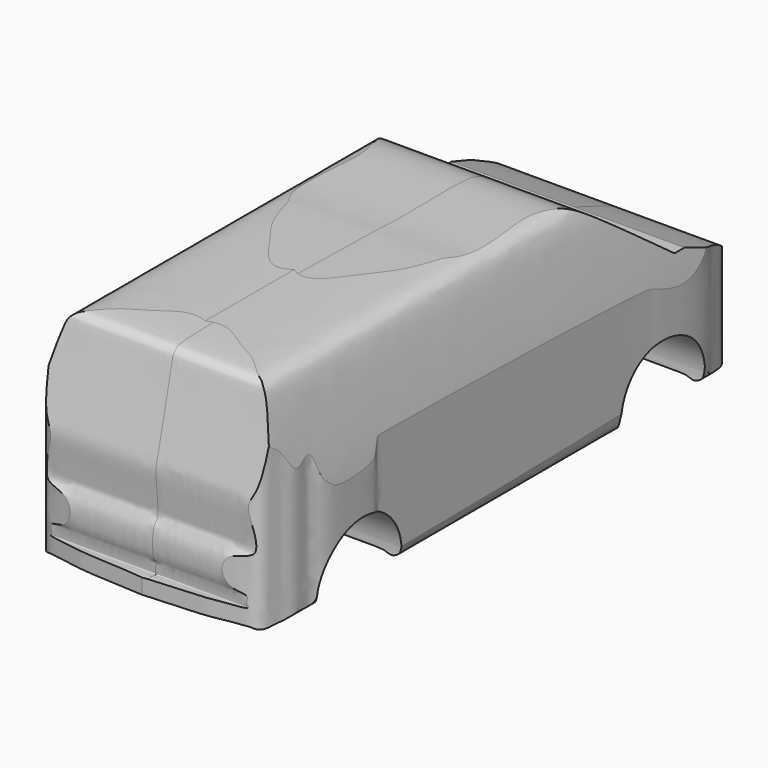
from build123d import *

# Parameters (mm, degrees)
F1_DEPTH = 489.2
F2_W     = 552.1718710661
F2_H     = 241.2179373205
F3_DEPTH = 150
F4_W     = 253.8293302059
F4_H     = 557.7778369188
F5_DEPTH = 195
F7_DEPTH = 128


with BuildPart() as f1:
    # F0 (on Front) → F1 (new body)
    with BuildSketch(Plane.XZ):
        with BuildLine():
            Line((-4.9163270742, 26.3766944408), (-4.9163270742, 186.1269325018))
            add(Edge.make_bspline(
                [(-4.9163270742, 186.1269325018), (-22.5806497037, 186.2470954657), (-39.7362336261, 185.8541230266), (-72.2403186612, 185.3564106492), (-77.4408093017, 181.1355058288), (-82.8351604574, 177.2207380093), (-94.4015701869, 123.2722789066), (-98.1410821188, 99.7118796438), (-99.2054438618, 78.1459320586), (-98.5277901216, 54.8078078692), (-95.0811025454, 29.4705435619), (-92.3951349311, 26.6784782419), (-87.7274105511, 24.2469144689), (-82.6026235778, 26.2448302063), (-77.6476138688, 27.3155752068), (-37.4142419456, 26.796482526), (-4.9163270742, 26.3766944408)],
                knots=[0, 0, 0, 0, 0.1039987304, 0.1931272163, 0.2321696231, 0.2711855953, 0.3927585533, 0.4794899335, 0.5534706884, 0.6375751135, 0.7192920725, 0.7499903944, 0.7862201058, 0.8229528414, 0.8568123095, 1, 1, 1, 1], degree=3))
        make_face()
        with BuildLine():
            add(Edge.make_bspline(
                [(-4.9163270742, 186.1269325018), (12.7479955554, 186.2470954657), (29.9035794778, 185.8541230266), (62.4076645129, 185.3564106492), (67.6081551534, 181.1355058288), (73.002506309, 177.2207380093), (84.5689160385, 123.2722789066), (88.3084279704, 99.7118796438), (89.3727897135, 78.1459320586), (88.6951359733, 54.8078078692), (85.248448397, 29.4705435619), (82.5624807828, 26.6784782419), (77.8947564028, 24.2469144689), (72.7699694294, 26.2448302063), (67.8149597205, 27.3155752068), (27.5815877972, 26.796482526), (-4.9163270742, 26.3766944408)],
                knots=[0, 0, 0, 0, 0.1039987304, 0.1931272163, 0.2321696231, 0.2711855953, 0.3927585533, 0.4794899335, 0.5534706884, 0.6375751135, 0.7192920725, 0.7499903944, 0.7862201058, 0.8229528414, 0.8568123095, 1, 1, 1, 1], degree=3))
            Line((-4.9163270742, 186.1269325018), (-4.9163270742, 26.3766944408))
        make_face()
    extrude(amount=F1_DEPTH)

    # F2 (on Right) → F3 (cut, symmetric)
    with BuildSketch(Plane.YZ):
        with Locations((-228.5621538758, 95.2818859369)):
            Rectangle(F2_W, F2_H)
        with BuildLine():
            add(Edge.make_bspline(
                [(-68.2119354606, 123.4825924039), (-54.4729644064, 118.4575147897), (-34.2161648556, 111.0485181803), (-27.0224678462, 106.5285001586), (-19.2236317508, 101.0048141359), (-15.4843838539, 97.1070190778), (-14.8815116911, 95.0945543945), (-12.3918319955, 94.8927020752), (-10.6341686151, 92.4842629083), (-8.2450770169, 87.5774388405), (-9.3826457506, 83.4010473739), (-8.8887459277, 78.1493990732), (-9.4445568987, 76.8897941355), (-6.2773103135, 75.4882318173), (-4.8463985176, 73.0703003666), (-3.9391535006, 70.7319692407), (-4.4540032431, 67.2054331302), (-4.7378227036, 65.9629810861), (-6.3420309907, 65.047041803), (-7.753448425, 64.2248372081), (-7.7324344205, 62.3450505623), (-8.1132880774, 54.001086094), (-6.8595709662, 53.0184329121), (-4.9149502443, 52.1601957632), (-2.9960762811, 51.4547733591), (-2.3824397396, 48.4768688656), (-2.7332922285, 36.9458959569), (-4.3200666389, 33.8231432499), (-7.9192002976, 28.4971688408), (-15.1438332229, 25.7778867549), (-28.9381492106, 25.5057982741), (-36.6917193995, 23.780863038), (-45.7834286489, 23.9907554484), (-50.9434118867, 24.1098795086)],
                knots=[0, 0, 0, 0, 0.089848798, 0.1324734643, 0.1775719514, 0.2115659132, 0.2310583564, 0.2522759991, 0.2774647966, 0.31115432, 0.3428166394, 0.3760806884, 0.3909819066, 0.4165148644, 0.4415467906, 0.465108769, 0.4925773408, 0.5089383233, 0.5284941427, 0.5461943696, 0.5664941387, 0.6087561409, 0.6264563857, 0.6476359805, 0.6674491654, 0.6922591193, 0.7421620325, 0.7710975183, 0.8063850508, 0.8474721242, 0.9018310245, 0.9442843745, 1, 1, 1, 1], degree=3))
            add(Edge.make_bspline(
                [(-50.9434118867, 24.1098795086), (-72.3510341943, 22.8715085199), (-128.9313943301, 19.5984931651), (-343.8627181777, 23.6220620103), (-411.0884913249, 25.3375530671), (-471.887428791, 24.1463004907), (-476.8333840773, 26.9537965218), (-476.893481677, 34.6783892812), (-475.2167902927, 40.147843492), (-467.1064908513, 37.571784387), (-468.9259189628, 41.6877438016), (-467.64218668, 47.517108911), (-471.4768323223, 49.1410912721), (-472.1504885889, 73.2937421011), (-464.2460836333, 74.9743687644), (-468.4704297835, 100.0195349697), (-468.0694258644, 111.664149689), (-465.718161052, 119.419558856), (-453.0267737101, 173.4916202363), (-451.9285342916, 180.2979197699), (-448.5754790877, 182.8258385426), (-446.4333744607, 188.3413025968), (-262.82569959, 185.224525387), (-259.9572747036, 185.0299990215), (-245.5722278976, 183.9582081838), (-223.7786778198, 183.75048161), (-184.9126442085, 185.0751302525), (-165.2350559126, 183.4509285849), (-158.6144136319, 180.8928267078), (-148.8665378574, 176.7524670472), (-108.5315059726, 146.6094967254), (-77.5848403573, 123.4825924039)],
                knots=[0, 0, 0, 0, 0.0647710917, 0.1711900389, 0.236314732, 0.2892187917, 0.3037765905, 0.3233229505, 0.339212061, 0.3567886701, 0.3688461153, 0.3858979178, 0.3995763872, 0.4334125106, 0.4515126274, 0.4867202216, 0.5115772846, 0.5335979442, 0.5879023932, 0.6073820867, 0.6197998542, 0.6359303998, 0.7338772028, 0.752510256, 0.7773699882, 0.8126761346, 0.8590023232, 0.8910919379, 0.9089189242, 0.9301189198, 1, 1, 1, 1], degree=3))
            Line((-77.5848403573, 123.4825924039), (-68.2119354606, 123.4825924039))
        make_face(mode=Mode.SUBTRACT)
    extrude(amount=F3_DEPTH, both=True, mode=Mode.SUBTRACT)

    # F4 (on Top) → F5 (cut)
    with BuildSketch(Plane.XY):
        with Locations((-6.1341226101, -229.4472679496)):
            Rectangle(F4_W, F4_H)
        with BuildLine():
            add(Edge.make_bspline(
                [(-4.9573625438, -475.3983318806), (2.4698565016, -475.0653266564), (17.6881681139, -474.3830016516), (43.7874640554, -473.6609489986), (56.5776055531, -470.3969588547), (72.0405357248, -468.6664895468), (77.7285810448, -464.4738538438), (79.5297643824, -459.2986554689), (80.3702184109, -450.7177257571), (82.7905345635, -444.5935174691), (84.6404160183, -437.0832920123), (81.7140639322, -424.2261932646), (86.2943182776, -419.3331534691), (87.2288320466, -411.2487173538), (88.0200037254, -404.87384996), (87.7065884114, -370.1244694617), (87.0906381629, -367.2474364934), (85.3378170129, -363.2203211611), (85.220707671, -360.3393128027), (85.9414625373, -101.4843706069), (86.7595794003, -100.5002725097), (87.9941871768, -75.6896082481), (87.1676462688, -56.6516108566), (85.3046596102, -46.5048068399), (82.1332763086, -40.4002126647), (80.3205278267, -29.7315468375), (78.3623578802, -24.4942627544), (72.8770832741, -18.8235206663), (57.1675762132, -6.549678242), (24.9559657245, -0.8737828879), (4.8850898194, -0.2875028273), (-4.9573625438, 0)],
                knots=[0, 0, 0, 0, 0.0433424894, 0.0888084094, 0.1223755686, 0.157167058, 0.1799362505, 0.2004155409, 0.2267100225, 0.249724086, 0.274836018, 0.3065045194, 0.3290391526, 0.3528641543, 0.3783586264, 0.430629927, 0.4474133563, 0.4632050104, 0.4838213091, 0.6270703729, 0.6505520568, 0.6927106517, 0.7338652415, 0.7615674596, 0.7852221716, 0.8145103623, 0.8355066055, 0.8595756034, 0.8989262686, 0.950434979, 1, 1, 1, 1], degree=3))
            add(Edge.make_bspline(
                [(-4.9573625438, -475.3983318806), (-12.3845815891, -475.0653266564), (-27.6028932014, -474.3830016516), (-53.702189143, -473.6609489986), (-66.4923306407, -470.3969588547), (-81.9552608123, -468.6664895468), (-87.6433061324, -464.4738538438), (-89.44448947, -459.2986554689), (-90.2849434985, -450.7177257571), (-92.7052596511, -444.5935174691), (-94.5551411058, -437.0832920123), (-91.6287890198, -424.2261932646), (-96.2090433652, -419.3331534691), (-97.1435571342, -411.2487173538), (-97.934728813, -404.87384996), (-97.621313499, -370.1244694617), (-97.0053632505, -367.2474364934), (-95.2525421005, -363.2203211611), (-95.1354327586, -360.3393128027), (-95.8561876248, -101.4843706069), (-96.6743044879, -100.5002725097), (-97.9089122644, -75.6896082481), (-97.0823713563, -56.6516108566), (-95.2193846978, -46.5048068399), (-92.0480013962, -40.4002126647), (-90.2352529143, -29.7315468375), (-88.2770829678, -24.4942627544), (-82.7918083617, -18.8235206663), (-67.0823013008, -6.549678242), (-34.8706908121, -0.8737828879), (-14.799814907, -0.2875028273), (-4.9573625438, 0)],
                knots=[0, 0, 0, 0, 0.0433424894, 0.0888084094, 0.1223755686, 0.157167058, 0.1799362505, 0.2004155409, 0.2267100225, 0.249724086, 0.274836018, 0.3065045194, 0.3290391526, 0.3528641543, 0.3783586264, 0.430629927, 0.4474133563, 0.4632050104, 0.4838213091, 0.6270703729, 0.6505520568, 0.6927106517, 0.7338652415, 0.7615674596, 0.7852221716, 0.8145103623, 0.8355066055, 0.8595756034, 0.8989262686, 0.950434979, 1, 1, 1, 1], degree=3))
        make_face(mode=Mode.SUBTRACT)
    extrude(amount=F5_DEPTH, mode=Mode.SUBTRACT)

    # F6 (on face) → F7 (cut, symmetric)
    with BuildSketch(Plane.YZ):
        with BuildLine():
            ThreePointArc((-340.3876125813, 23.2119746506), (-379.3564724541, 69.9379685148), (-420.0893044472, 24.7414316982))
            Line((-420.0893044472, 24.7414316982), (-340.3876125813, 23.2119746506))
        make_face()
        with BuildLine():
            Line((-129.8925727606, 21.071812138), (-51.1023625731, 23.9826571196))
            ThreePointArc((-51.1023625731, 23.9826571196), (-92.3153115059, 71.732293321), (-129.8925727606, 21.071812138))
        make_face()
    extrude(amount=F7_DEPTH, both=True, mode=Mode.SUBTRACT)


solid = f1.part
